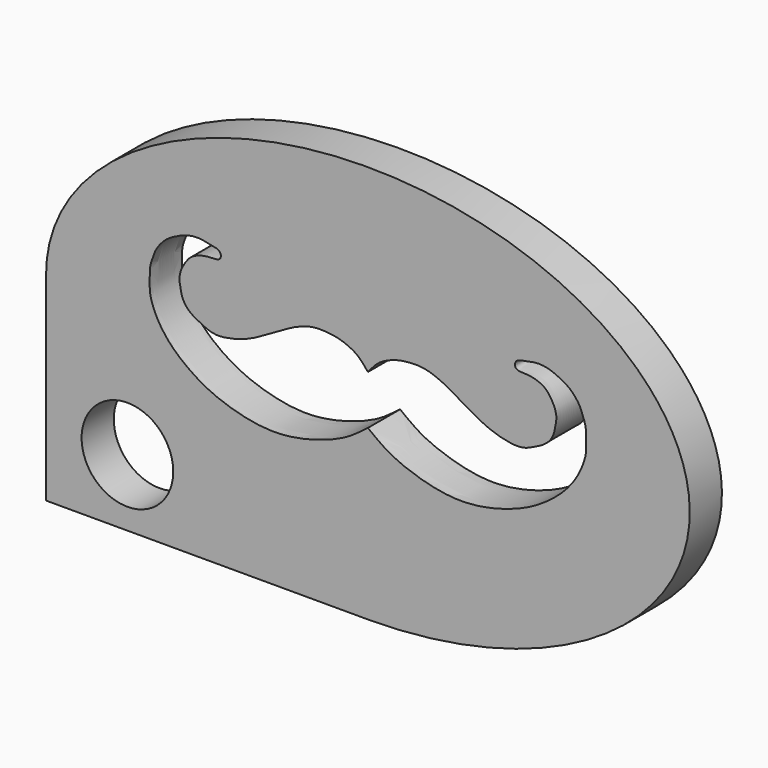
from build123d import *

# Parameters (mm, degrees)
F0_R     = 2.8477224049
F1_DEPTH = 2.5


with BuildPart() as f1:
    # F0 (on Front) → F1 (new body)
    with BuildSketch(Plane.XZ):
        with BuildLine():
            Line((-35.9999988973, 3.4280383327), (-15.9999988973, 3.4280383327))
            add(Edge.make_bspline(
                [(-15.9999988973, 3.4280383327), (32.2842723501, 3.4280383327), (-1.8578632736, 24.5527776114), (-35.9999988973, 45.6775168902), (-35.9999988973, 15.8026241006)],
                knots=[4.7123889804, 4.7123889804, 4.7123889804, 7.0685834706, 7.0685834706, 9.4247779608, 9.4247779608, 9.4247779608], degree=2, weights=[1, 0.3826834324, 1, 0.3826834324, 1]))
            Line((-35.9999988973, 15.8026241006), (-35.9999988973, 3.4280383327))
        make_face()
        with Locations((-30.9450756931, 7.5792328205)):
            Circle(F0_R, mode=Mode.SUBTRACT)
        with BuildLine():
            add(Edge.make_bspline(
                [(-15.9999988973, 16.9677362805), (-16.1006074137, 17.0957864839), (-16.3090117601, 17.3610346608), (-16.7326926163, 17.7576761032), (-17.1987285889, 17.9906230371), (-17.7051110312, 18.1962660405), (-18.2914896088, 18.3068757965), (-19.0276832886, 18.3600535344), (-19.6437038134, 18.2857578834), (-20.2088415379, 18.0950697362), (-20.7405835514, 17.8626347743), (-21.2775015868, 17.5459918135), (-21.8042946208, 17.2233914034), (-22.3154404549, 16.9784952904), (-22.9947815023, 16.55233784), (-23.6196895807, 16.2856712335), (-24.1875399943, 16.097605559), (-24.6466499647, 15.9945765116), (-25.1975526219, 15.9096248761), (-25.7889826563, 15.9648809651), (-26.3123539704, 16.2212809119), (-26.7719767009, 16.4368401852), (-27.2489737916, 16.7852579154), (-27.5311402197, 17.2233476504), (-27.656453729, 17.760204852), (-27.7420315074, 18.3041909153), (-27.6335935378, 18.7444457583), (-27.4408400318, 19.1376616088), (-27.098522746, 19.6396157647), (-26.6611447301, 19.8889322538), (-26.0364439923, 20.0625776236), (-25.5238691231, 20.0355449762), (-25.1511103696, 20.128170378), (-25.1156777416, 20.4421879496), (-25.2854105685, 20.6514893259), (-25.6277862426, 20.7232877366), (-26.0535446672, 20.8146955799), (-26.4938635881, 20.8897612616), (-27.1720237652, 20.8499094966), (-27.8880839826, 20.540823416), (-28.5010102897, 20.2142406051), (-28.9245307489, 19.7585271807), (-29.1988023022, 19.3698353712), (-29.3873785183, 18.8333791547), (-29.5439201981, 18.4028947023), (-29.5669792364, 17.8349557343), (-29.5682052026, 17.2647816675), (-29.5410083124, 16.7736520527), (-29.3578177405, 16.2102105127), (-29.074365712, 15.5383552463), (-28.2633360754, 14.3578786698), (-26.6511297426, 13.1195420477), (-25.1243015769, 12.3956092321), (-23.2163623951, 11.8584554497), (-21.5105548845, 11.7419140451), (-19.9919743524, 11.9841320778), (-18.7846290295, 12.3296447258), (-17.3237402613, 12.8938618085), (-16.4476256569, 13.5655320936), (-15.9999988973, 13.9087036282)],
                knots=[0, 0, 0, 0, 0.0150850983, 0.0312395952, 0.0466308626, 0.0622479828, 0.0787803596, 0.0971002185, 0.1139346944, 0.1302749771, 0.1465218542, 0.1634055152, 0.1800562894, 0.1961861044, 0.2152330371, 0.2330373315, 0.2493609484, 0.2639662627, 0.2797930842, 0.296193271, 0.3123490333, 0.3276377018, 0.3438451815, 0.3590865218, 0.3749087736, 0.3906997669, 0.4047860662, 0.4189559433, 0.4353270066, 0.4504496758, 0.4675055806, 0.4830485145, 0.4953192194, 0.5060739914, 0.5165569727, 0.5289943575, 0.5430806553, 0.5573210128, 0.5747193508, 0.5936504699, 0.6114919074, 0.6280688134, 0.6428141291, 0.6587067508, 0.6731932796, 0.689174625, 0.7053397587, 0.7202401467, 0.7363222785, 0.7543178335, 0.7796535959, 0.8100678837, 0.8380344468, 0.8678525927, 0.8958840931, 0.922022191, 0.9459100035, 0.9723568391, 1, 1, 1, 1], degree=3))
            add(Edge.make_bspline(
                [(-15.9999988973, 16.9677362805), (-15.8993903809, 17.0957864839), (-15.6909860345, 17.3610346608), (-15.2673051783, 17.7576761032), (-14.8012692057, 17.9906230371), (-14.2948867635, 18.1962660405), (-13.7085081858, 18.3068757965), (-12.972314506, 18.3600535344), (-12.3562939813, 18.2857578834), (-11.7911562568, 18.0950697362), (-11.2594142432, 17.8626347743), (-10.7224962078, 17.5459918135), (-10.1957031738, 17.2233914034), (-9.6845573397, 16.9784952904), (-9.0052162924, 16.55233784), (-8.3803082139, 16.2856712335), (-7.8124578004, 16.097605559), (-7.35334783, 15.9945765116), (-6.8024451727, 15.9096248761), (-6.2110151383, 15.9648809651), (-5.6876438243, 16.2212809119), (-5.2280210937, 16.4368401852), (-4.7510240031, 16.7852579154), (-4.4688575749, 17.2233476504), (-4.3435440656, 17.760204852), (-4.2579662872, 18.3041909153), (-4.3664042569, 18.7444457583), (-4.5591577628, 19.1376616088), (-4.9014750486, 19.6396157647), (-5.3388530645, 19.8889322538), (-5.9635538024, 20.0625776236), (-6.4761286716, 20.0355449762), (-6.848887425, 20.128170378), (-6.8843200531, 20.4421879496), (-6.7145872261, 20.6514893259), (-6.372211552, 20.7232877366), (-5.9464531275, 20.8146955799), (-5.5061342066, 20.8897612616), (-4.8279740294, 20.8499094966), (-4.111913812, 20.540823416), (-3.498987505, 20.2142406051), (-3.0754670457, 19.7585271807), (-2.8011954925, 19.3698353712), (-2.6126192764, 18.8333791547), (-2.4560775965, 18.4028947023), (-2.4330185582, 17.8349557343), (-2.431792592, 17.2647816675), (-2.4589894823, 16.7736520527), (-2.6421800542, 16.2102105127), (-2.9256320826, 15.5383552463), (-3.7366617192, 14.3578786698), (-5.348868052, 13.1195420477), (-6.8756962177, 12.3956092321), (-8.7836353996, 11.8584554497), (-10.4894429102, 11.7419140451), (-12.0080234422, 11.9841320778), (-13.2153687651, 12.3296447258), (-14.6762575333, 12.8938618085), (-15.5523721377, 13.5655320936), (-15.9999988973, 13.9087036282)],
                knots=[0, 0, 0, 0, 0.0150850983, 0.0312395952, 0.0466308626, 0.0622479828, 0.0787803596, 0.0971002185, 0.1139346944, 0.1302749771, 0.1465218542, 0.1634055152, 0.1800562894, 0.1961861044, 0.2152330371, 0.2330373315, 0.2493609484, 0.2639662627, 0.2797930842, 0.296193271, 0.3123490333, 0.3276377018, 0.3438451815, 0.3590865218, 0.3749087736, 0.3906997669, 0.4047860662, 0.4189559433, 0.4353270066, 0.4504496758, 0.4675055806, 0.4830485145, 0.4953192194, 0.5060739914, 0.5165569727, 0.5289943575, 0.5430806553, 0.5573210128, 0.5747193508, 0.5936504699, 0.6114919074, 0.6280688134, 0.6428141291, 0.6587067508, 0.6731932796, 0.689174625, 0.7053397587, 0.7202401467, 0.7363222785, 0.7543178335, 0.7796535959, 0.8100678837, 0.8380344468, 0.8678525927, 0.8958840931, 0.922022191, 0.9459100035, 0.9723568391, 1, 1, 1, 1], degree=3))
        make_face(mode=Mode.SUBTRACT)
    extrude(amount=F1_DEPTH)


solid = f1.part
